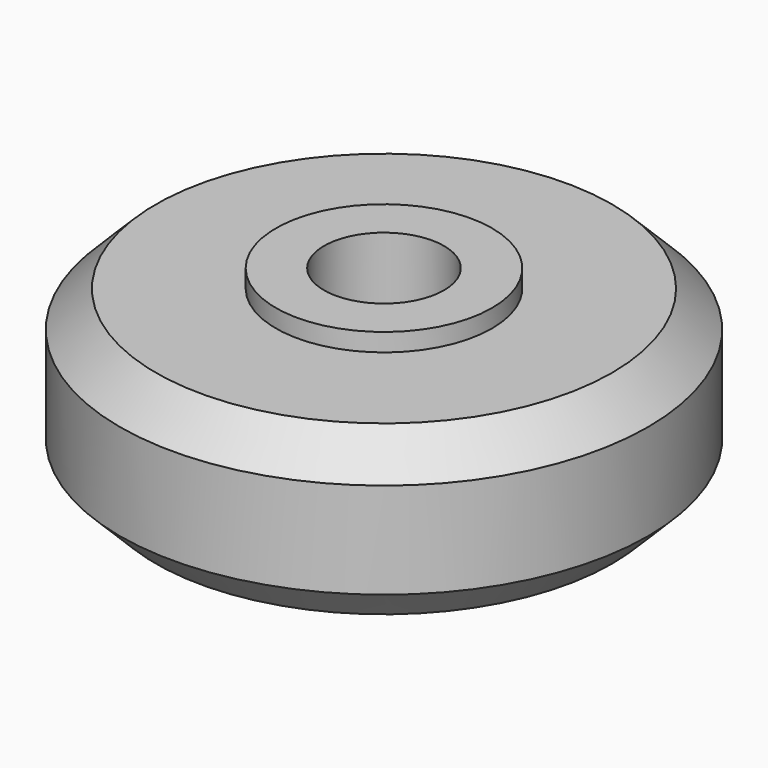
from build123d import *

# Parameters (mm, degrees)
F0_R     = 4.5
F0_R_2   = 2.5
F1_DEPTH = 4.25
F0_R_3   = 11
F2_DEPTH = 3.5
F3_SIZE  = 1.5


with BuildPart() as f1:
    # F0 (on Top) → F1 (new body)
    with BuildSketch(Plane.XY):
        Circle(F0_R)
        Circle(F0_R_2, mode=Mode.SUBTRACT)
    extrude(amount=F1_DEPTH)

    # F0 (on Top) → F2 (join)
    with BuildSketch(Plane.XY):
        Circle(F0_R_3)
        Circle(F0_R, mode=Mode.SUBTRACT)
    extrude(amount=F2_DEPTH)

    # F3
    f3_edges = [f1.edges().sort_by_distance(p)[0] for p in [
        (-11, 0, 3.5),
    ]]
    chamfer(f3_edges, length=F3_SIZE)

    # F4: F1 across face


with BuildPart() as f1_1:
    add(f1.part)
    add(f1.part.mirror(Plane(origin=(0, 0, 0), x_dir=(1, 0, 0), z_dir=(0, 0, -1))))


solid = f1_1.part
